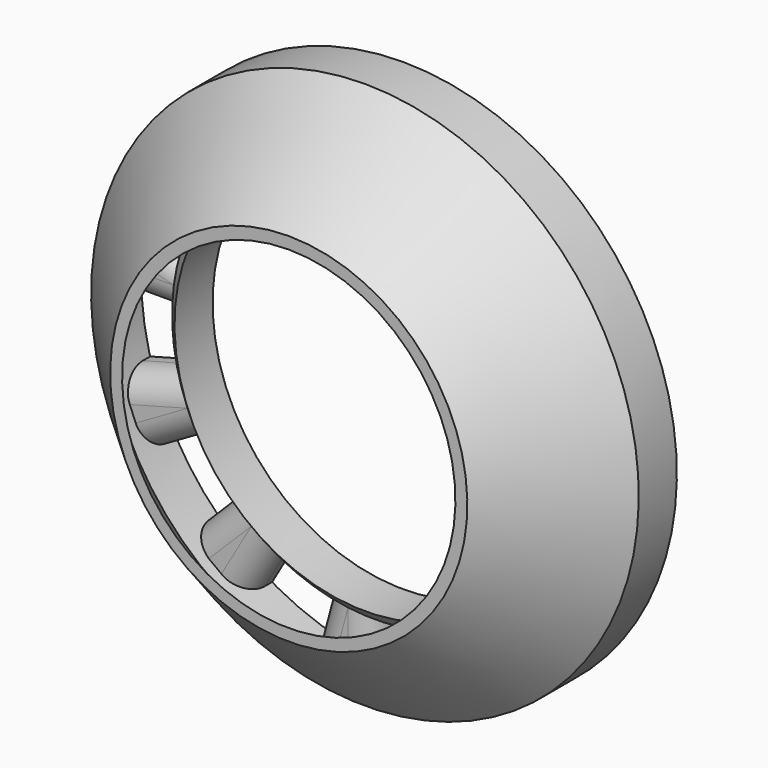
from build123d import *

# Parameters (mm, degrees)
F0_R     = 8
F1_DEPTH = 1.5
F2_R     = 1.1094


with BuildPart() as f1:
    # F0 (on Front) → F1 (new body)
    with BuildSketch(Plane.XZ):
        with BuildLine():
            ThreePointArc((8.2103695235, -2.1999618834), (8.4272813217, -1.1094726339), (8.5, 0))
            ThreePointArc((8.5, 0), (8.4272813217, 1.1094726339), (8.2103695235, 2.1999618834))
            ThreePointArc((8.2103695235, 2.1999618834), (7.8529760263, 3.2528091751), (7.3612159322, 4.25))
            ThreePointArc((7.3612159322, 4.25), (6.7435033925, 5.1744721466), (6.0104076401, 6.0104076401))
            ThreePointArc((6.0104076401, 6.0104076401), (5.1744721466, 6.7435033925), (4.25, 7.3612159322))
            ThreePointArc((4.25, 7.3612159322), (3.2528091751, 7.8529760263), (2.1999618834, 8.2103695235))
            ThreePointArc((2.1999618834, 8.2103695235), (1.1094726339, 8.4272813217), (0, 8.5))
            ThreePointArc((0, 8.5), (-1.1094726339, 8.4272813217), (-2.1999618834, 8.2103695235))
            ThreePointArc((-2.1999618834, 8.2103695235), (-3.2528091751, 7.8529760263), (-4.25, 7.3612159322))
            ThreePointArc((-4.25, 7.3612159322), (-5.1744721466, 6.7435033925), (-6.0104076401, 6.0104076401))
            ThreePointArc((-6.0104076401, 6.0104076401), (-6.7435033925, 5.1744721466), (-7.3612159322, 4.25))
            ThreePointArc((-7.3612159322, 4.25), (-7.8529760263, 3.2528091751), (-8.2103695235, 2.1999618834))
            ThreePointArc((-8.2103695235, 2.1999618834), (-8.4272813217, 1.1094726339), (-8.5, 0))
            ThreePointArc((-8.5, 0), (-8.4272813217, -1.1094726339), (-8.2103695235, -2.1999618834))
            ThreePointArc((-8.2103695235, -2.1999618834), (-7.8529760263, -3.2528091751), (-7.3612159322, -4.25))
            ThreePointArc((-7.3612159322, -4.25), (-6.7435033925, -5.1744721466), (-6.0104076401, -6.0104076401))
            ThreePointArc((-6.0104076401, -6.0104076401), (-5.1744721466, -6.7435033925), (-4.25, -7.3612159322))
            ThreePointArc((-4.25, -7.3612159322), (-3.2528091751, -7.8529760263), (-2.1999618834, -8.2103695235))
            ThreePointArc((-2.1999618834, -8.2103695235), (-1.1094726339, -8.4272813217), (0, -8.5))
            ThreePointArc((0, -8.5), (1.1094726339, -8.4272813217), (2.1999618834, -8.2103695235))
            ThreePointArc((2.1999618834, -8.2103695235), (3.2528091751, -7.8529760263), (4.25, -7.3612159322))
            ThreePointArc((4.25, -7.3612159322), (5.1744721466, -6.7435033925), (6.0104076401, -6.0104076401))
            ThreePointArc((6.0104076401, -6.0104076401), (6.7435033925, -5.1744721466), (7.3612159322, -4.25))
            ThreePointArc((7.3612159322, -4.25), (7.8529760263, -3.2528091751), (8.2103695235, -2.1999618834))
        make_face()
        Circle(F0_R, mode=Mode.SUBTRACT)
        with BuildLine():
            Line((11, 0), (8.5, 0))
            ThreePointArc((8.5, 0), (8.4272813217, -1.1094726339), (8.2103695235, -2.1999618834))
            Line((8.2103695235, -2.1999618834), (10.6251840892, -2.8470094961))
            ThreePointArc((10.6251840892, -2.8470094961), (10.9058934751, -1.4357881144), (11, 0))
        make_face()
        with BuildLine():
            ThreePointArc((7.3612159322, 4.25), (7.8529760263, 3.2528091751), (8.2103695235, 2.1999618834))
            Line((8.2103695235, 2.1999618834), (10.6251840892, 2.8470094961))
            ThreePointArc((10.6251840892, 2.8470094961), (10.1626748576, 4.209517756), (9.5262794416, 5.5))
            Line((9.5262794416, 5.5), (7.3612159322, 4.25))
        make_face()
        with BuildLine():
            Line((9.5262794416, -5.5), (7.3612159322, -4.25))
            ThreePointArc((7.3612159322, -4.25), (6.7435033925, -5.1744721466), (6.0104076401, -6.0104076401))
            Line((6.0104076401, -6.0104076401), (7.7781745931, -7.7781745931))
            ThreePointArc((7.7781745931, -7.7781745931), (8.7268867432, -6.6963757191), (9.5262794416, -5.5))
        make_face()
        with BuildLine():
            ThreePointArc((4.25, 7.3612159322), (5.1744721466, 6.7435033925), (6.0104076401, 6.0104076401))
            Line((6.0104076401, 6.0104076401), (7.7781745931, 7.7781745931))
            ThreePointArc((7.7781745931, 7.7781745931), (6.6963757191, 8.7268867432), (5.5, 9.5262794416))
            Line((5.5, 9.5262794416), (4.25, 7.3612159322))
        make_face()
        with BuildLine():
            Line((5.5, -9.5262794416), (4.25, -7.3612159322))
            ThreePointArc((4.25, -7.3612159322), (3.2528091751, -7.8529760263), (2.1999618834, -8.2103695235))
            Line((2.1999618834, -8.2103695235), (2.8470094961, -10.6251840892))
            ThreePointArc((2.8470094961, -10.6251840892), (4.209517756, -10.1626748576), (5.5, -9.5262794416))
        make_face()
        with BuildLine():
            ThreePointArc((0, 8.5), (1.1094726339, 8.4272813217), (2.1999618834, 8.2103695235))
            Line((2.1999618834, 8.2103695235), (2.8470094961, 10.6251840892))
            ThreePointArc((2.8470094961, 10.6251840892), (1.4357881144, 10.9058934751), (0, 11))
            Line((0, 11), (0, 8.5))
        make_face()
        with BuildLine():
            Line((0, -11), (0, -8.5))
            ThreePointArc((0, -8.5), (-1.1094726339, -8.4272813217), (-2.1999618834, -8.2103695235))
            Line((-2.1999618834, -8.2103695235), (-2.8470094961, -10.6251840892))
            ThreePointArc((-2.8470094961, -10.6251840892), (-1.4357881144, -10.9058934751), (0, -11))
        make_face()
        with BuildLine():
            ThreePointArc((-4.25, 7.3612159322), (-3.2528091751, 7.8529760263), (-2.1999618834, 8.2103695235))
            Line((-2.1999618834, 8.2103695235), (-2.8470094961, 10.6251840892))
            ThreePointArc((-2.8470094961, 10.6251840892), (-4.209517756, 10.1626748576), (-5.5, 9.5262794416))
            Line((-5.5, 9.5262794416), (-4.25, 7.3612159322))
        make_face()
        with BuildLine():
            Line((-5.5, -9.5262794416), (-4.25, -7.3612159322))
            ThreePointArc((-4.25, -7.3612159322), (-5.1744721466, -6.7435033925), (-6.0104076401, -6.0104076401))
            Line((-6.0104076401, -6.0104076401), (-7.7781745931, -7.7781745931))
            ThreePointArc((-7.7781745931, -7.7781745931), (-6.6963757191, -8.7268867432), (-5.5, -9.5262794416))
        make_face()
        with BuildLine():
            ThreePointArc((-7.3612159322, 4.25), (-6.7435033925, 5.1744721466), (-6.0104076401, 6.0104076401))
            Line((-6.0104076401, 6.0104076401), (-7.7781745931, 7.7781745931))
            ThreePointArc((-7.7781745931, 7.7781745931), (-8.7268867432, 6.6963757191), (-9.5262794416, 5.5))
            Line((-9.5262794416, 5.5), (-7.3612159322, 4.25))
        make_face()
        with BuildLine():
            Line((-9.5262794416, -5.5), (-7.3612159322, -4.25))
            ThreePointArc((-7.3612159322, -4.25), (-7.8529760263, -3.2528091751), (-8.2103695235, -2.1999618834))
            Line((-8.2103695235, -2.1999618834), (-10.6251840892, -2.8470094961))
            ThreePointArc((-10.6251840892, -2.8470094961), (-10.1626748576, -4.209517756), (-9.5262794416, -5.5))
        make_face()
        with BuildLine():
            ThreePointArc((-8.5, 0), (-8.4272813217, 1.1094726339), (-8.2103695235, 2.1999618834))
            Line((-8.2103695235, 2.1999618834), (-10.6251840892, 2.8470094961))
            ThreePointArc((-10.6251840892, 2.8470094961), (-10.9058934751, 1.4357881144), (-11, 0))
            Line((-11, 0), (-8.5, 0))
        make_face()
    extrude(amount=F1_DEPTH)

    # F2
    f2_edges = [f1.edges().sort_by_distance(p)[0] for p in [
        (-9.417777, -1.5, 2.523486),
        (-9.75, -1.5, 0),
        (-9.417777, -1.5, -2.523486),
        (-8.443748, -1.5, -4.875),
        (-6.894291, -1.5, -6.894291),
        (-4.875, -1.5, -8.443748),
        (-2.523486, -1.5, -9.417777),
        (0, -1.5, -9.75),
        (2.523486, -1.5, -9.417777),
        (4.875, -1.5, -8.443748),
        (6.894291, -1.5, -6.894291),
        (8.443748, -1.5, -4.875),
        (9.417777, -1.5, -2.523486),
        (9.75, -1.5, 0),
        (9.417777, -1.5, 2.523486),
        (8.443748, -1.5, 4.875),
        (6.894291, -1.5, 6.894291),
        (4.875, -1.5, 8.443748),
        (2.523486, -1.5, 9.417777),
        (0, -1.5, 9.75),
        (-2.523486, -1.5, 9.417777),
        (-4.875, -1.5, 8.443748),
        (-6.894291, -1.5, 6.894291),
        (-8.443748, -1.5, 4.875),
    ]]
    fillet(f2_edges, radius=F2_R)

    # F3 (on Right) → F6 (revolve)
    with BuildSketch(Plane.YZ):
        Polygon((-2, 8), (-1.5, 8), (-1.5, 8.5), align=None)
    revolve(axis=Axis((0, -1.5, 0), (0, -1, 0)))


with BuildPart() as f5:
    # F4 (on Right) → F5 (revolve)
    with BuildSketch(Plane.YZ):
        Polygon((-2, 11), (0, 11), (0, 11.5), (-2, 11.5), (-6, 7.5), (-6, 7), align=None)
    revolve(axis=Axis((0, -1.5, 0), (0, -1, 0)))


solid = Compound([f1.part, f5.part])
